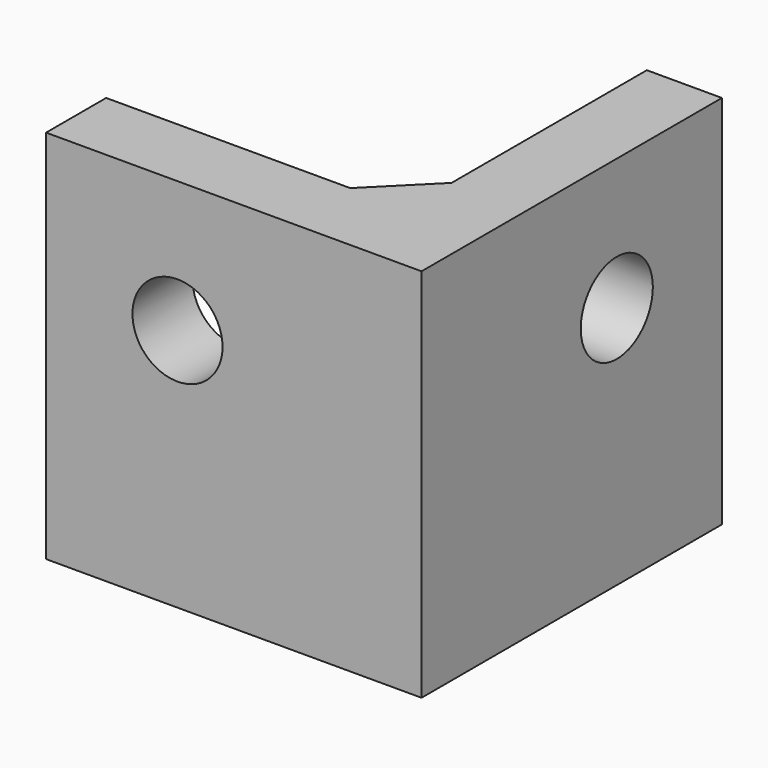
from build123d import *

# Parameters (mm, degrees)
SKETCH001_W     = 20
SKETCH001_H     = 20
SKETCH001_R     = 2.4
PAD001_DEPTH    = 4
SKETCH002_W     = 20
SKETCH002_H     = 20
SKETCH002_R     = 2.4
PAD002_DEPTH    = 4
SKETCH_W        = 20
SKETCH_H        = 20
SKETCH_R        = 2.4
PAD_DEPTH       = 4
CHAMFER_SIZE    = 3
CHAMFER001_SIZE = 3
CHAMFER002_SIZE = 3


with BuildPart() as pad001:
    # Sketch001 → Pad001 (new body)
    with BuildSketch(Plane.XZ.offset(-4)):
        with Locations((-10, 10)):
            Rectangle(SKETCH001_W, SKETCH001_H)
        with Locations((-13, 13)):
            Circle(SKETCH001_R, mode=Mode.SUBTRACT)
    extrude(amount=PAD001_DEPTH)


with BuildPart() as pad002:
    # Sketch002 → Pad002 (new body)
    with BuildSketch(Plane.YZ.offset(-4)):
        with Locations((10, 10)):
            Rectangle(SKETCH002_W, SKETCH002_H)
        with Locations((13, 13)):
            Circle(SKETCH002_R, mode=Mode.SUBTRACT)
    extrude(amount=PAD002_DEPTH)


with BuildPart() as chamfer002:
    # Sketch → Pad (new body)
    with BuildSketch(Plane.XY):
        with Locations((-10, 10)):
            Rectangle(SKETCH_W, SKETCH_H)
        with Locations((-13, 13)):
            Circle(SKETCH_R, mode=Mode.SUBTRACT)
    extrude(amount=PAD_DEPTH)

    # Fusion: union Pad001, Pad002
    add(pad001.part)
    add(pad002.part)

    # Chamfer
    chamfer_edges = [chamfer002.edges().sort_by_distance(p)[0] for p in [
        (-4, 4, 12),
    ]]
    chamfer(chamfer_edges, length=CHAMFER_SIZE)

    # Chamfer001
    chamfer001_edges = [chamfer002.edges().sort_by_distance(p)[0] for p in [
        (-13.5, 4, 4),
    ]]
    chamfer(chamfer001_edges, length=CHAMFER001_SIZE)

    # Chamfer002
    chamfer002_edges = [chamfer002.edges().sort_by_distance(p)[0] for p in [
        (-4, 13.5, 4),
    ]]
    chamfer(chamfer002_edges, length=CHAMFER002_SIZE)


solid = chamfer002.part
